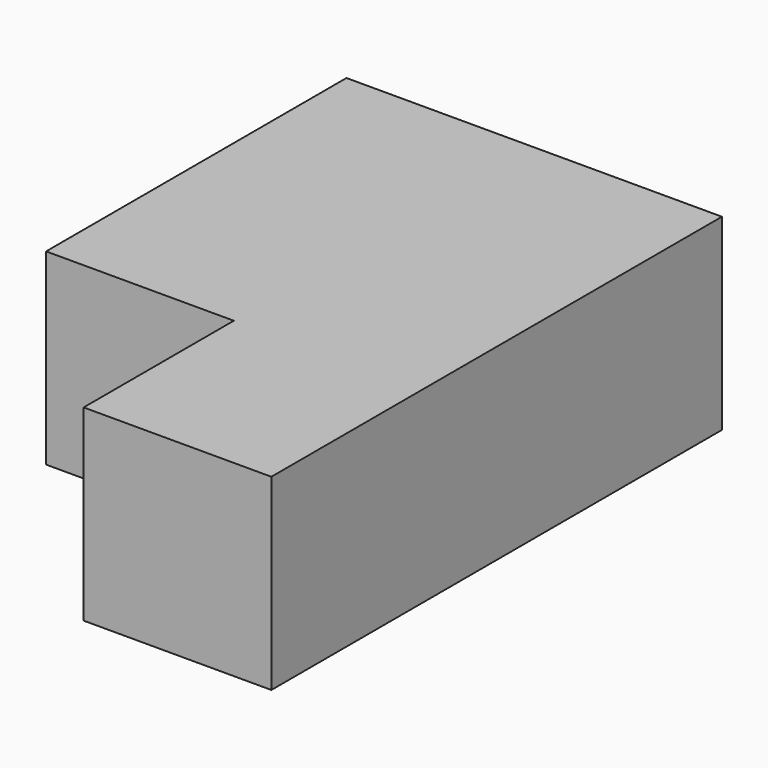
from build123d import *

# Parameters (mm, degrees)
F0_W     = 19.05
F0_H     = 19.05
F1_DEPTH = 38.1
F2_DEPTH = 57.15


with BuildPart() as f1:
    # F0 (on Front) → F1 (new body)
    with BuildSketch(Plane.XZ):
        with Locations((-73.389372, 9.525)):
            Rectangle(F0_W, F0_H)
    extrude(amount=F1_DEPTH)

    # F0 (on Front) → F2 (join)
    with BuildSketch(Plane.XZ):
        with Locations((-54.339372, 9.525)):
            Rectangle(F0_W, F0_H)
    extrude(amount=F2_DEPTH)


solid = f1.part
